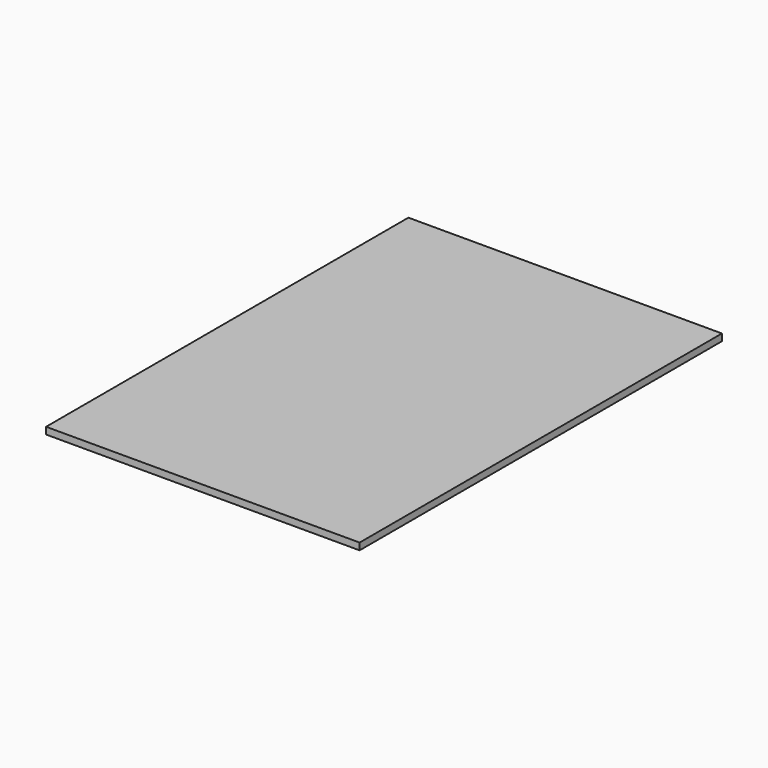
from build123d import *

# Parameters (mm, degrees)
F0_W     = 228.6
F0_H     = 330.2
F0_W_2   = 12
F0_H_2   = 310
F1_DEPTH = 5
F2_W     = 228.6
F2_H     = 330.2
F2_W_2   = 212
F2_H_2   = 12
F3_DEPTH = 5
F4_W     = 228.6
F4_H     = 330.2
F4_R     = 3
F5_DEPTH = 5
F6_W     = 228.6
F6_H     = 330.2
F7_DEPTH = 5


with BuildPart() as f1:
    # F0 (on Top) → F1 (new body)
    with BuildSketch(Plane.XY):
        Rectangle(F0_W, F0_H)
        with Locations((-100, 0)):
            Rectangle(F0_W_2, F0_H_2, mode=Mode.SUBTRACT)
        with Locations((-75, 0)):
            Rectangle(F0_W_2, F0_H_2, mode=Mode.SUBTRACT)
        with Locations((-50, 0)):
            Rectangle(F0_W_2, F0_H_2, mode=Mode.SUBTRACT)
        with Locations((-25, 0)):
            Rectangle(F0_W_2, F0_H_2, mode=Mode.SUBTRACT)
        Rectangle(F0_W_2, F0_H_2, mode=Mode.SUBTRACT)
        with Locations((25, 0)):
            Rectangle(F0_W_2, F0_H_2, mode=Mode.SUBTRACT)
        with Locations((50, 0)):
            Rectangle(F0_W_2, F0_H_2, mode=Mode.SUBTRACT)
        with Locations((75, 0)):
            Rectangle(F0_W_2, F0_H_2, mode=Mode.SUBTRACT)
        with Locations((100, 0)):
            Rectangle(F0_W_2, F0_H_2, mode=Mode.SUBTRACT)
    extrude(amount=F1_DEPTH)


with BuildPart() as f3:
    # F2 (on Top) → F3 (new body)
    with BuildSketch(Plane.XY):
        Rectangle(F2_W, F2_H)
        with Locations((0, -150)):
            Rectangle(F2_W_2, F2_H_2, mode=Mode.SUBTRACT)
        with Locations((0, -125)):
            Rectangle(F2_W_2, F2_H_2, mode=Mode.SUBTRACT)
        with Locations((0, -100)):
            Rectangle(F2_W_2, F2_H_2, mode=Mode.SUBTRACT)
        with Locations((0, -75)):
            Rectangle(F2_W_2, F2_H_2, mode=Mode.SUBTRACT)
        with Locations((0, -50)):
            Rectangle(F2_W_2, F2_H_2, mode=Mode.SUBTRACT)
        with Locations((0, -25)):
            Rectangle(F2_W_2, F2_H_2, mode=Mode.SUBTRACT)
        Rectangle(F2_W_2, F2_H_2, mode=Mode.SUBTRACT)
        with Locations((0, 25)):
            Rectangle(F2_W_2, F2_H_2, mode=Mode.SUBTRACT)
        with Locations((0, 50)):
            Rectangle(F2_W_2, F2_H_2, mode=Mode.SUBTRACT)
        with Locations((0, 75)):
            Rectangle(F2_W_2, F2_H_2, mode=Mode.SUBTRACT)
        with Locations((0, 100)):
            Rectangle(F2_W_2, F2_H_2, mode=Mode.SUBTRACT)
        with Locations((0, 125)):
            Rectangle(F2_W_2, F2_H_2, mode=Mode.SUBTRACT)
        with Locations((0, 150)):
            Rectangle(F2_W_2, F2_H_2, mode=Mode.SUBTRACT)
    extrude(amount=F3_DEPTH)


with BuildPart() as f5:
    # F4 (on Top) → F5 (new body)
    with BuildSketch(Plane.XY):
        Rectangle(F4_W, F4_H)
        with Locations((-100, -150)):
            Circle(F4_R, mode=Mode.SUBTRACT)
        with Locations((-100, -125)):
            Circle(F4_R, mode=Mode.SUBTRACT)
        with Locations((-75, -150)):
            Circle(F4_R, mode=Mode.SUBTRACT)
        with Locations((-75, -125)):
            Circle(F4_R, mode=Mode.SUBTRACT)
        with Locations((-100, -100)):
            Circle(F4_R, mode=Mode.SUBTRACT)
        with Locations((-75, -100)):
            Circle(F4_R, mode=Mode.SUBTRACT)
        with Locations((-50, -150)):
            Circle(F4_R, mode=Mode.SUBTRACT)
        with Locations((-50, -125)):
            Circle(F4_R, mode=Mode.SUBTRACT)
        with Locations((-25, -150)):
            Circle(F4_R, mode=Mode.SUBTRACT)
        with Locations((-25, -125)):
            Circle(F4_R, mode=Mode.SUBTRACT)
        with Locations((-50, -100)):
            Circle(F4_R, mode=Mode.SUBTRACT)
        with Locations((-25, -100)):
            Circle(F4_R, mode=Mode.SUBTRACT)
        with Locations((-100, -75)):
            Circle(F4_R, mode=Mode.SUBTRACT)
        with Locations((-100, -50)):
            Circle(F4_R, mode=Mode.SUBTRACT)
        with Locations((-75, -75)):
            Circle(F4_R, mode=Mode.SUBTRACT)
        with Locations((-75, -50)):
            Circle(F4_R, mode=Mode.SUBTRACT)
        with Locations((-100, -25)):
            Circle(F4_R, mode=Mode.SUBTRACT)
        with Locations((-75, -25)):
            Circle(F4_R, mode=Mode.SUBTRACT)
        with Locations((-50, -75)):
            Circle(F4_R, mode=Mode.SUBTRACT)
        with Locations((-50, -50)):
            Circle(F4_R, mode=Mode.SUBTRACT)
        with Locations((-25, -75)):
            Circle(F4_R, mode=Mode.SUBTRACT)
        with Locations((-25, -50)):
            Circle(F4_R, mode=Mode.SUBTRACT)
        with Locations((-50, -25)):
            Circle(F4_R, mode=Mode.SUBTRACT)
        with Locations((-25, -25)):
            Circle(F4_R, mode=Mode.SUBTRACT)
        with Locations((0, -150)):
            Circle(F4_R, mode=Mode.SUBTRACT)
        with Locations((25, -150)):
            Circle(F4_R, mode=Mode.SUBTRACT)
        with Locations((0, -125)):
            Circle(F4_R, mode=Mode.SUBTRACT)
        with Locations((25, -125)):
            Circle(F4_R, mode=Mode.SUBTRACT)
        with Locations((50, -150)):
            Circle(F4_R, mode=Mode.SUBTRACT)
        with Locations((50, -125)):
            Circle(F4_R, mode=Mode.SUBTRACT)
        with Locations((0, -100)):
            Circle(F4_R, mode=Mode.SUBTRACT)
        with Locations((25, -100)):
            Circle(F4_R, mode=Mode.SUBTRACT)
        with Locations((50, -100)):
            Circle(F4_R, mode=Mode.SUBTRACT)
        with Locations((75, -150)):
            Circle(F4_R, mode=Mode.SUBTRACT)
        with Locations((75, -125)):
            Circle(F4_R, mode=Mode.SUBTRACT)
        with Locations((100, -150)):
            Circle(F4_R, mode=Mode.SUBTRACT)
        with Locations((100, -125)):
            Circle(F4_R, mode=Mode.SUBTRACT)
        with Locations((75, -100)):
            Circle(F4_R, mode=Mode.SUBTRACT)
        with Locations((100, -100)):
            Circle(F4_R, mode=Mode.SUBTRACT)
        with Locations((0, -75)):
            Circle(F4_R, mode=Mode.SUBTRACT)
        with Locations((25, -75)):
            Circle(F4_R, mode=Mode.SUBTRACT)
        with Locations((0, -50)):
            Circle(F4_R, mode=Mode.SUBTRACT)
        with Locations((25, -50)):
            Circle(F4_R, mode=Mode.SUBTRACT)
        with Locations((50, -75)):
            Circle(F4_R, mode=Mode.SUBTRACT)
        with Locations((50, -50)):
            Circle(F4_R, mode=Mode.SUBTRACT)
        with Locations((0, -25)):
            Circle(F4_R, mode=Mode.SUBTRACT)
        with Locations((25, -25)):
            Circle(F4_R, mode=Mode.SUBTRACT)
        with Locations((50, -25)):
            Circle(F4_R, mode=Mode.SUBTRACT)
        with Locations((75, -75)):
            Circle(F4_R, mode=Mode.SUBTRACT)
        with Locations((75, -50)):
            Circle(F4_R, mode=Mode.SUBTRACT)
        with Locations((100, -75)):
            Circle(F4_R, mode=Mode.SUBTRACT)
        with Locations((100, -50)):
            Circle(F4_R, mode=Mode.SUBTRACT)
        with Locations((75, -25)):
            Circle(F4_R, mode=Mode.SUBTRACT)
        with Locations((100, -25)):
            Circle(F4_R, mode=Mode.SUBTRACT)
        with Locations((-100, 0)):
            Circle(F4_R, mode=Mode.SUBTRACT)
        with Locations((-100, 25)):
            Circle(F4_R, mode=Mode.SUBTRACT)
        with Locations((-75, 0)):
            Circle(F4_R, mode=Mode.SUBTRACT)
        with Locations((-75, 25)):
            Circle(F4_R, mode=Mode.SUBTRACT)
        with Locations((-100, 50)):
            Circle(F4_R, mode=Mode.SUBTRACT)
        with Locations((-100, 75)):
            Circle(F4_R, mode=Mode.SUBTRACT)
        with Locations((-75, 50)):
            Circle(F4_R, mode=Mode.SUBTRACT)
        with Locations((-75, 75)):
            Circle(F4_R, mode=Mode.SUBTRACT)
        with Locations((-50, 0)):
            Circle(F4_R, mode=Mode.SUBTRACT)
        with Locations((-50, 25)):
            Circle(F4_R, mode=Mode.SUBTRACT)
        with Locations((-25, 0)):
            Circle(F4_R, mode=Mode.SUBTRACT)
        with Locations((-25, 25)):
            Circle(F4_R, mode=Mode.SUBTRACT)
        with Locations((-50, 50)):
            Circle(F4_R, mode=Mode.SUBTRACT)
        with Locations((-50, 75)):
            Circle(F4_R, mode=Mode.SUBTRACT)
        with Locations((-25, 50)):
            Circle(F4_R, mode=Mode.SUBTRACT)
        with Locations((-25, 75)):
            Circle(F4_R, mode=Mode.SUBTRACT)
        with Locations((-100, 100)):
            Circle(F4_R, mode=Mode.SUBTRACT)
        with Locations((-75, 100)):
            Circle(F4_R, mode=Mode.SUBTRACT)
        with Locations((-100, 125)):
            Circle(F4_R, mode=Mode.SUBTRACT)
        with Locations((-100, 150)):
            Circle(F4_R, mode=Mode.SUBTRACT)
        with Locations((-75, 125)):
            Circle(F4_R, mode=Mode.SUBTRACT)
        with Locations((-75, 150)):
            Circle(F4_R, mode=Mode.SUBTRACT)
        with Locations((-50, 100)):
            Circle(F4_R, mode=Mode.SUBTRACT)
        with Locations((-25, 100)):
            Circle(F4_R, mode=Mode.SUBTRACT)
        with Locations((-50, 125)):
            Circle(F4_R, mode=Mode.SUBTRACT)
        with Locations((-50, 150)):
            Circle(F4_R, mode=Mode.SUBTRACT)
        with Locations((-25, 125)):
            Circle(F4_R, mode=Mode.SUBTRACT)
        with Locations((-25, 150)):
            Circle(F4_R, mode=Mode.SUBTRACT)
        Circle(F4_R, mode=Mode.SUBTRACT)
        with Locations((25, 0)):
            Circle(F4_R, mode=Mode.SUBTRACT)
        with Locations((0, 25)):
            Circle(F4_R, mode=Mode.SUBTRACT)
        with Locations((25, 25)):
            Circle(F4_R, mode=Mode.SUBTRACT)
        with Locations((50, 0)):
            Circle(F4_R, mode=Mode.SUBTRACT)
        with Locations((50, 25)):
            Circle(F4_R, mode=Mode.SUBTRACT)
        with Locations((0, 50)):
            Circle(F4_R, mode=Mode.SUBTRACT)
        with Locations((25, 50)):
            Circle(F4_R, mode=Mode.SUBTRACT)
        with Locations((0, 75)):
            Circle(F4_R, mode=Mode.SUBTRACT)
        with Locations((25, 75)):
            Circle(F4_R, mode=Mode.SUBTRACT)
        with Locations((50, 50)):
            Circle(F4_R, mode=Mode.SUBTRACT)
        with Locations((50, 75)):
            Circle(F4_R, mode=Mode.SUBTRACT)
        with Locations((75, 0)):
            Circle(F4_R, mode=Mode.SUBTRACT)
        with Locations((75, 25)):
            Circle(F4_R, mode=Mode.SUBTRACT)
        with Locations((100, 0)):
            Circle(F4_R, mode=Mode.SUBTRACT)
        with Locations((100, 25)):
            Circle(F4_R, mode=Mode.SUBTRACT)
        with Locations((75, 50)):
            Circle(F4_R, mode=Mode.SUBTRACT)
        with Locations((75, 75)):
            Circle(F4_R, mode=Mode.SUBTRACT)
        with Locations((100, 50)):
            Circle(F4_R, mode=Mode.SUBTRACT)
        with Locations((100, 75)):
            Circle(F4_R, mode=Mode.SUBTRACT)
        with Locations((0, 100)):
            Circle(F4_R, mode=Mode.SUBTRACT)
        with Locations((25, 100)):
            Circle(F4_R, mode=Mode.SUBTRACT)
        with Locations((50, 100)):
            Circle(F4_R, mode=Mode.SUBTRACT)
        with Locations((0, 125)):
            Circle(F4_R, mode=Mode.SUBTRACT)
        with Locations((25, 125)):
            Circle(F4_R, mode=Mode.SUBTRACT)
        with Locations((0, 150)):
            Circle(F4_R, mode=Mode.SUBTRACT)
        with Locations((25, 150)):
            Circle(F4_R, mode=Mode.SUBTRACT)
        with Locations((50, 125)):
            Circle(F4_R, mode=Mode.SUBTRACT)
        with Locations((50, 150)):
            Circle(F4_R, mode=Mode.SUBTRACT)
        with Locations((75, 100)):
            Circle(F4_R, mode=Mode.SUBTRACT)
        with Locations((100, 100)):
            Circle(F4_R, mode=Mode.SUBTRACT)
        with Locations((75, 125)):
            Circle(F4_R, mode=Mode.SUBTRACT)
        with Locations((75, 150)):
            Circle(F4_R, mode=Mode.SUBTRACT)
        with Locations((100, 125)):
            Circle(F4_R, mode=Mode.SUBTRACT)
        with Locations((100, 150)):
            Circle(F4_R, mode=Mode.SUBTRACT)
    extrude(amount=F5_DEPTH)


with BuildPart() as f7:
    # F6 (on Top) → F7 (new body)
    with BuildSketch(Plane.XY):
        Rectangle(F6_W, F6_H)
    extrude(amount=F7_DEPTH)


solid = Compound([f1.part, f3.part, f5.part, f7.part])
